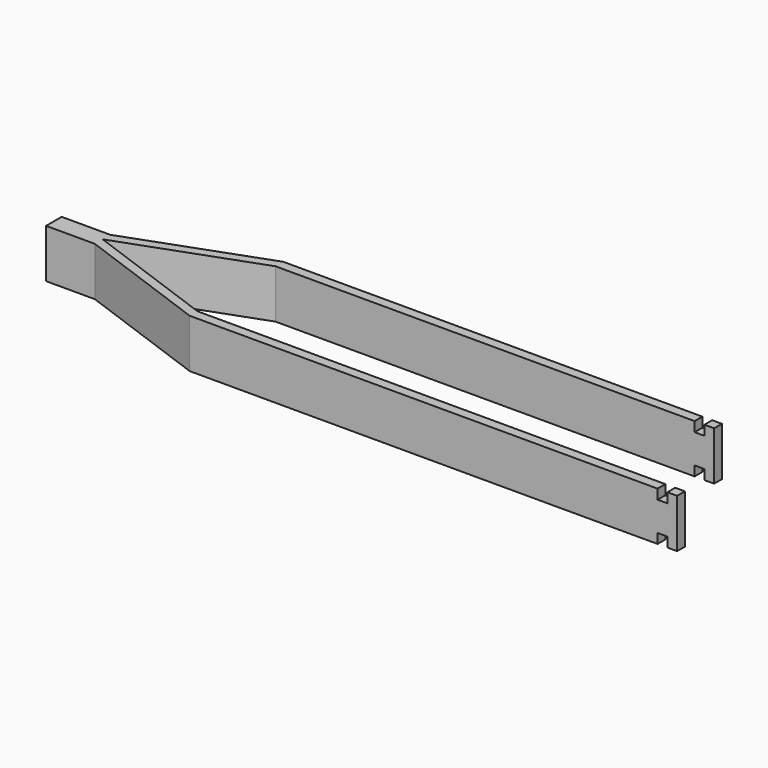
from build123d import *

# Parameters (mm, degrees)
F1_DEPTH = 5
F2_W     = 1
F2_H     = 1
F3_DEPTH = 1
F4_W     = 1
F4_H     = 1
F5_DEPTH = 1


with BuildPart() as f1:
    # F0 (on Top) → F1 (new body)
    with BuildSketch(Plane.XY):
        Polygon((13.737387, -5), (0, 0), (13.737387, 5), (58.737387, 5), (58.737387, 6), (13.737387, 6), (0, 1), (-5, 1), (-5, -1), (0, -1), (13.737387, -6), (63.737387, -6), (63.737387, -5), align=None)
    extrude(amount=F1_DEPTH)

    # F2 (on face) → F3 (cut, through all)
    with BuildSketch(Plane(origin=(0, 6, 0), x_dir=(-1, 0, 0), z_dir=(0, 1, 0))):
        with Locations((-57.237387, 4.5)):
            Rectangle(F2_W, F2_H)
        with Locations((-57.237387, 0.5)):
            Rectangle(F2_W, F2_H)
    extrude(amount=-F3_DEPTH, mode=Mode.SUBTRACT)

    # F4 (on face) → F5 (cut, through all)
    with BuildSketch(Plane.XZ.offset(6)):
        with Locations((62.237387, 4.5)):
            Rectangle(F4_W, F4_H)
        with Locations((62.237387, 0.5)):
            Rectangle(F4_W, F4_H)
    extrude(amount=-F5_DEPTH, mode=Mode.SUBTRACT)


solid = f1.part
